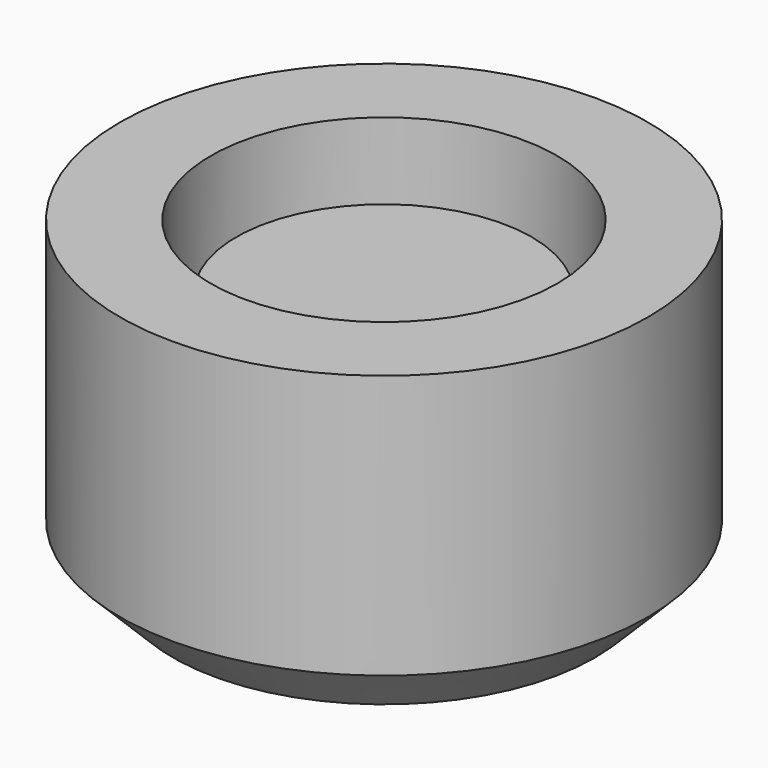
from build123d import *

# Parameters (mm, degrees)
F0_R     = 25
F1_DEPTH = 20
F2_R     = 14
F3_DEPTH = 4
F2_R_2   = 25
F2_R_3   = 16.4
F4_DEPTH = 10
F5_SIZE  = 5


with BuildPart() as f1:
    # F0 (on Top) → F1 (new body)
    with BuildSketch(Plane.XY):
        Circle(F0_R)
    extrude(amount=F1_DEPTH)

    # F2 (on face) → F3 (join)
    with BuildSketch(Plane.XY.offset(20)):
        Circle(F2_R)
    extrude(amount=F3_DEPTH)

    # F2 (on face) → F4 (join)
    with BuildSketch(Plane.XY.offset(20)):
        Circle(F2_R_2)
        Circle(F2_R_3, mode=Mode.SUBTRACT)
    extrude(amount=F4_DEPTH)

    # F5
    f5_edges = [f1.edges().sort_by_distance(p)[0] for p in [
        (-25, 0, 0),
    ]]
    chamfer(f5_edges, length=F5_SIZE)


solid = f1.part
